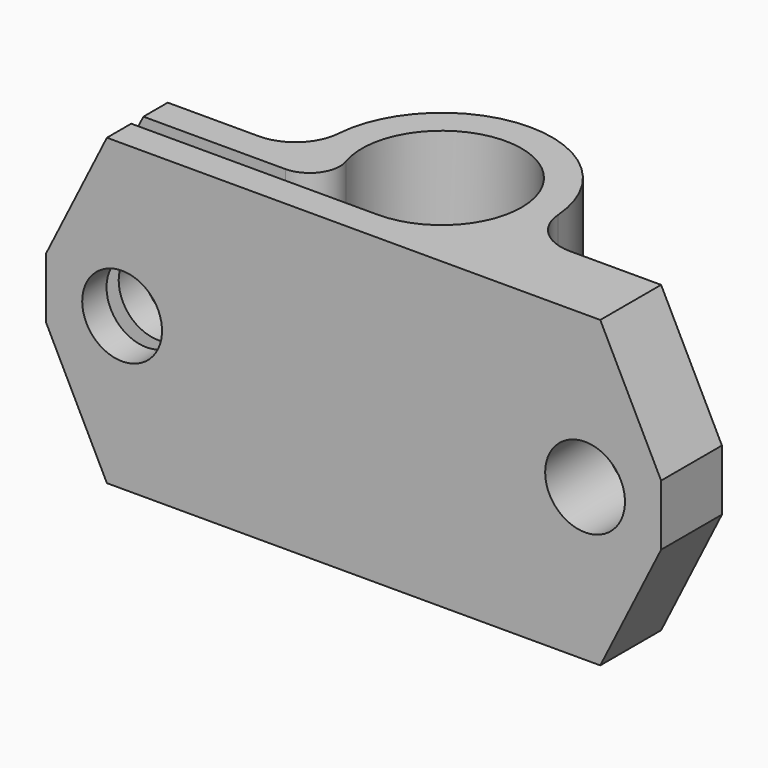
from build123d import *

# Parameters (mm, degrees)
F0_R       = 5.25
F1_DEPTH   = 20
F2_W       = 20.2225241501
F2_H       = 1
F3_DEPTH   = 20.001
F4_R       = 2.625
F5_DEPTH   = 5.001
F6_SIZE2   = 8
F6_SIZE    = 4
F7_SIZE2   = 4
F7_SIZE    = 8
F7_2_SIZE2 = 4
F7_2_SIZE  = 8
F8_R       = 2


with BuildPart() as f1:
    # F0 (on Top) → F1 (new body)
    with BuildSketch(Plane.XY):
        with BuildLine():
            Line((-10.2225241501, 5), (-20.2225241501, 5))
            Line((-20.2225241501, 5), (-20.2225241501, 0))
            Line((-20.2225241501, 0), (20.2225241501, 0))
            Line((20.2225241501, 0), (20.2225241501, 5))
            Line((20.2225241501, 5), (10.2225241501, 5))
            ThreePointArc((10.2225241501, 5), (8.180287213, 5.8024403779), (7.2305658623, 7.7804878049))
            ThreePointArc((7.2305658623, 7.7804878049), (0, 14.5), (-7.2305658623, 7.7804878049))
            ThreePointArc((-7.2305658623, 7.7804878049), (-8.180287213, 5.8024403779), (-10.2225241501, 5))
        make_face()
        with Locations((0, 7.25)):
            Circle(F0_R, mode=Mode.SUBTRACT)
    extrude(amount=F1_DEPTH)

    # F2 (on face) → F3 (cut, through all)
    with BuildSketch(Plane.XY.offset(20)):
        with Locations((-10.1112620751, 2.5)):
            Rectangle(F2_W, F2_H)
    extrude(amount=-F3_DEPTH, mode=Mode.SUBTRACT)

    # F4 (on face) → F5 (cut, through all)
    with BuildSketch(Plane(origin=(0, 5, 0), x_dir=(-1, 0, 0), z_dir=(0, 1, 0))):
        with Locations((-15.2225241501, 10)):
            Circle(F4_R)
        with Locations((15.2225241501, 10)):
            Circle(F4_R)
    extrude(amount=-F5_DEPTH, mode=Mode.SUBTRACT)

    # F6
    f6_edges = [f1.edges().sort_by_distance(p)[0] for p in [
        (-20.222524, 1, 20),
        (-20.222524, 4, 20),
        (20.222524, 2.5, 20),
        (-20.222524, 1, 0),
    ]]
    chamfer(f6_edges, length=F6_SIZE, length2=F6_SIZE2)

    # F7
    f7_edges = [f1.edges().sort_by_distance(p)[0] for p in [
        (20.222524, 2.5, 0),
    ]]
    f7_side = f1.faces().sort_by_distance((20.222524, 2.5, 6))[0]
    chamfer(f7_edges, length=F7_SIZE, length2=F7_SIZE2, reference=f7_side)

    # F7#2
    f7_2_edges = [f1.edges().sort_by_distance(p)[0] for p in [
        (-20.222524, 4, 0),
    ]]
    f7_2_side = f1.faces().sort_by_distance((-20.222524, 4, 6))[0]
    chamfer(f7_2_edges, length=F7_2_SIZE, length2=F7_2_SIZE2, reference=f7_2_side)

    # F8
    f8_edges = [f1.edges().sort_by_distance(p)[0] for p in [
        (-3.082207, 3, 10),
    ]]
    fillet(f8_edges, radius=F8_R)


solid = f1.part
